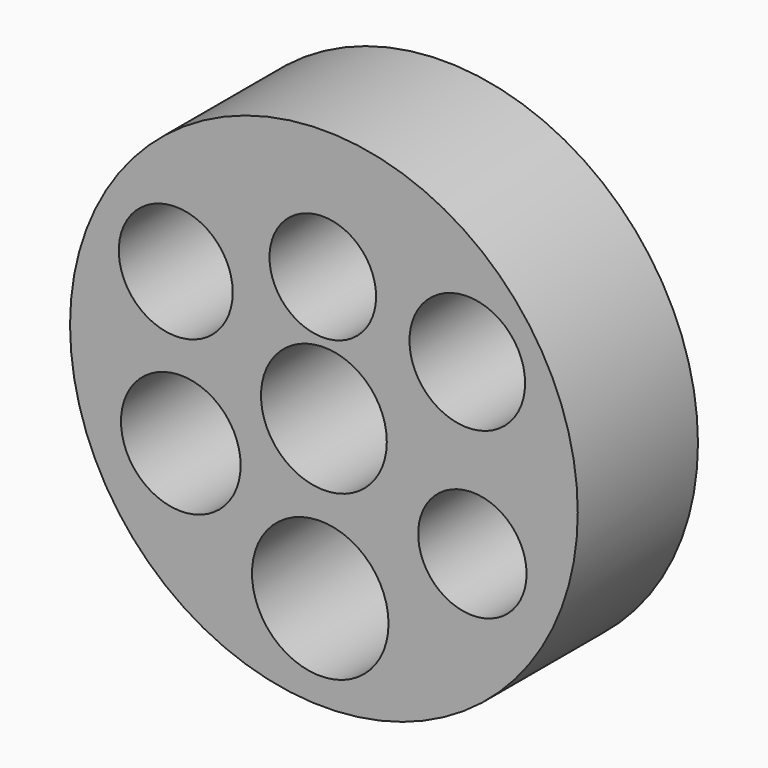
from build123d import *

# Parameters (mm, degrees)
F0_R     = 21.458506
F1_DEPTH = 12.7
F2_R     = 4.505363
F2_R_2   = 4.886755
F2_R_3   = 5.317651
F2_R_4   = 4.581176
F2_R_5   = 5.057623
F2_R_6   = 4.815756
F2_R_7   = 5.770159
F3_DEPTH = 25.4


with BuildPart() as f1:
    # F0 (on Front) → F1 (new body)
    with BuildSketch(Plane.XZ):
        with Locations((-1.802028, 22.345137)):
            Circle(F0_R)
    extrude(amount=F1_DEPTH)

    # F2 (on face) → F3 (cut)
    with BuildSketch(Plane.XZ.offset(12.7)):
        with Locations((-1.896222, 32.868695)):
            Circle(F2_R)
        with Locations((10.318782, 30.511415)):
            Circle(F2_R_2)
        with Locations((-1.802028, 22.345137)):
            Circle(F2_R_3)
        with Locations((10.747379, 16.367722)):
            Circle(F2_R_4)
        with Locations((-13.89693, 16.582021)):
            Circle(F2_R_5)
        with Locations((-14.325527, 29.225621)):
            Circle(F2_R_6)
        with Locations((-2.110521, 8.867281)):
            Circle(F2_R_7)
    extrude(amount=-F3_DEPTH, mode=Mode.SUBTRACT)


solid = f1.part
